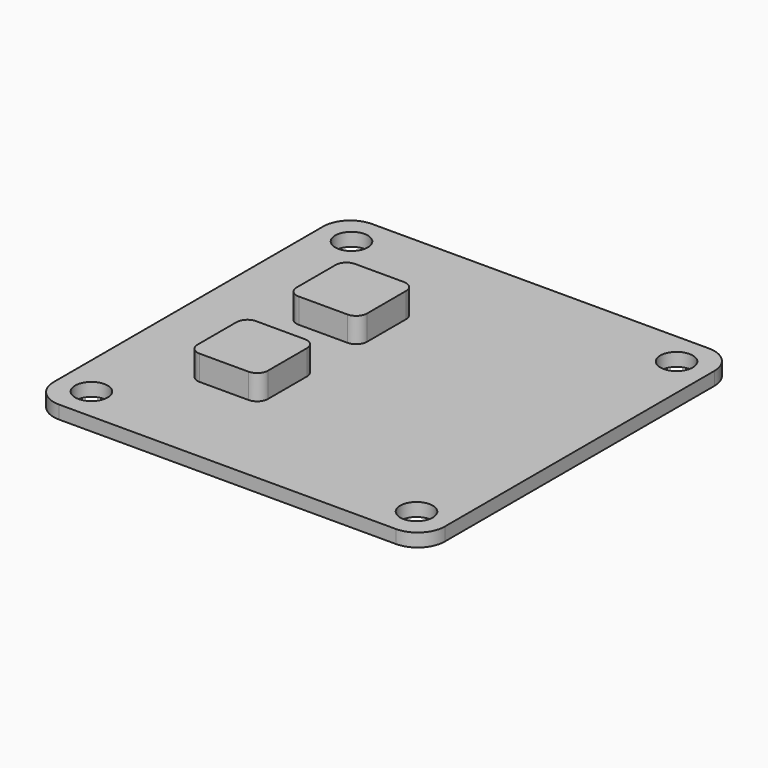
from build123d import *

# Parameters (mm, degrees)
F0_W     = 36.1
F0_H     = 36.1
F0_R     = 1.5
F1_DEPTH = 1.22
F2_R     = 2.5
F3_W     = 6.5
F3_H     = 6.5
F4_DEPTH = 2.3
F5_R     = 1


with BuildPart() as f1:
    # F0 (on Top) → F1 (new body)
    with BuildSketch(Plane.XY):
        Rectangle(F0_W, F0_H)
        with Locations((-15, -15)):
            Circle(F0_R, mode=Mode.SUBTRACT)
        with Locations((15, -15)):
            Circle(F0_R, mode=Mode.SUBTRACT)
        with Locations((-15, 15)):
            Circle(F0_R, mode=Mode.SUBTRACT)
        with Locations((15, 15)):
            Circle(F0_R, mode=Mode.SUBTRACT)
    extrude(amount=F1_DEPTH)

    # F2
    f2_edges = [f1.edges().sort_by_distance(p)[0] for p in [
        (18.05, 18.05, 0.61),
        (18.05, -18.05, 0.61),
        (-18.05, -18.05, 0.61),
        (-18.05, 18.05, 0.61),
    ]]
    fillet(f2_edges, radius=F2_R)

    # F3 (on face) → F4 (join)
    with BuildSketch(Plane.XY.offset(1.22)):
        with Locations((-7.588814, -5.71497)):
            Rectangle(F3_W, F3_H)
        with Locations((-7.588814, 5.71497)):
            Rectangle(F3_W, F3_H)
    extrude(amount=F4_DEPTH)

    # F5
    f5_edges = [f1.edges().sort_by_distance(p)[0] for p in [
        (-10.838814, -8.96497, 2.37),
        (-4.338814, -8.96497, 2.37),
        (-4.338814, -2.46497, 2.37),
        (-10.838814, -2.46497, 2.37),
        (-10.838814, 8.96497, 2.37),
        (-10.838814, 2.46497, 2.37),
        (-4.338814, 8.96497, 2.37),
        (-4.338814, 2.46497, 2.37),
    ]]
    fillet(f5_edges, radius=F5_R)


solid = f1.part
